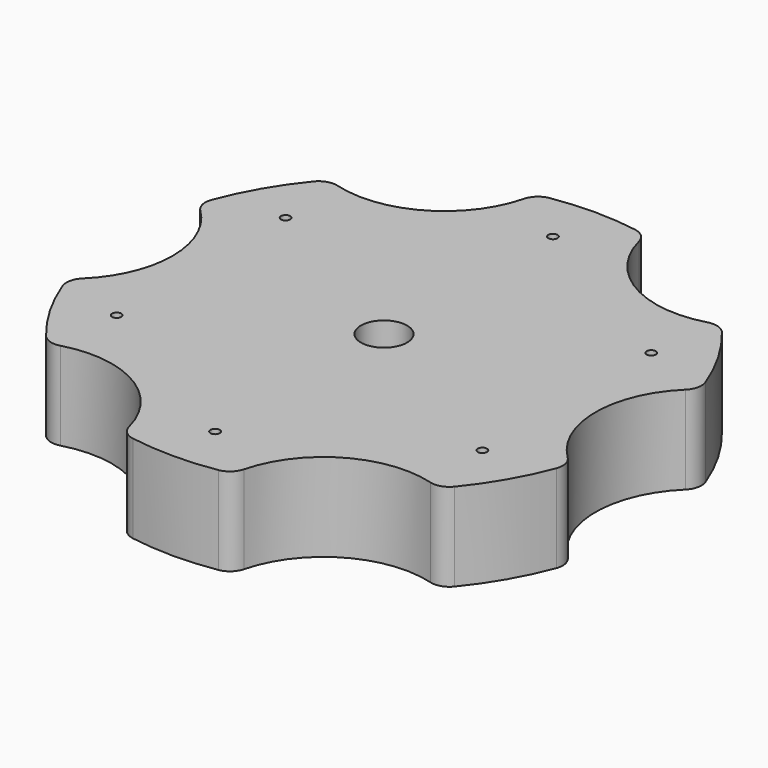
from build123d import *

# Parameters (mm, degrees)
F0_R     = 28.575
F0_R_2   = 2.5
F1_DEPTH = 9.525
F3_DEPTH = 25.4
F4_R     = 0.5
F5_DEPTH = 25.4
F6_R     = 2


with BuildPart() as f1:
    # F0 (on Top) → F1 (new body)
    with BuildSketch(Plane.XY):
        Circle(F0_R)
        Circle(F0_R_2, mode=Mode.SUBTRACT)
    extrude(amount=F1_DEPTH)

    # F2 (on Top) → F3 (cut)
    with BuildSketch(Plane.XY):
        with BuildLine():
            ThreePointArc((6.6033751745, -33.3637991738), (17.0054966041, -29.4543841262), (25.592210064, -22.4005902387))
            ThreePointArc((25.592210064, -22.4005902387), (11.4492466041, -19.8306768266), (6.6033751745, -33.3637991738))
        make_face()
        with BuildLine():
            ThreePointArc((-25.592210064, -22.4005902387), (-17.0054966041, -29.4543841262), (-6.6033751745, -33.3637991738))
            ThreePointArc((-6.6033751745, -33.3637991738), (-6.0720335059, -31.4411002438), (-5.8929966041, -29.4543841262))
            ThreePointArc((-5.8929966041, -29.4543841262), (-13.259311683, -18.9923692731), (-25.592210064, -22.4005902387))
        make_face()
        with BuildLine():
            ThreePointArc((-22.8984932081, 0), (-25.5356944726, 7.187278177), (-32.1955852385, 10.9632089351))
            ThreePointArc((-32.1955852385, 10.9632089351), (-34.0109932081, 0), (-32.1955852385, -10.9632089351))
            ThreePointArc((-32.1955852385, -10.9632089351), (-25.5356944726, -7.187278177), (-22.8984932081, 0))
        make_face()
        with BuildLine():
            ThreePointArc((-5.8929966041, 29.4543841262), (-6.0720335059, 31.4411002438), (-6.6033751745, 33.3637991738))
            ThreePointArc((-6.6033751745, 33.3637991738), (-17.0054966041, 29.4543841262), (-25.592210064, 22.4005902387))
            ThreePointArc((-25.592210064, 22.4005902387), (-13.259311683, 18.9923692731), (-5.8929966041, 29.4543841262))
        make_face()
        with BuildLine():
            ThreePointArc((6.6033751745, 33.3637991738), (11.4492466041, 19.8306768266), (25.592210064, 22.4005902387))
            ThreePointArc((25.592210064, 22.4005902387), (17.0054966041, 29.4543841262), (6.6033751745, 33.3637991738))
        make_face()
        with BuildLine():
            ThreePointArc((32.1955852385, -10.9632089351), (33.5540719577, -5.55625), (34.0109932081, 0))
            ThreePointArc((34.0109932081, 0), (33.5540719577, 5.55625), (32.1955852385, 10.9632089351))
            ThreePointArc((32.1955852385, 10.9632089351), (22.8984932081, 0), (32.1955852385, -10.9632089351))
        make_face()
    extrude(amount=F3_DEPTH, mode=Mode.SUBTRACT)

    # F4 (on Top) → F5 (cut)
    with BuildSketch(Plane.XY):
        with Locations((0, 22.86)):
            Circle(F4_R)
        with Locations((-19.7973407305, 11.43)):
            Circle(F4_R)
        with Locations((-19.7973407305, -11.43)):
            Circle(F4_R)
        with Locations((0, -22.86)):
            Circle(F4_R)
        with Locations((19.7973407305, -11.43)):
            Circle(F4_R)
        with Locations((19.7973407305, 11.43)):
            Circle(F4_R)
    extrude(amount=F5_DEPTH, mode=Mode.SUBTRACT)

    # F6
    f6_edges = [f1.edges().sort_by_distance(p)[0] for p in [
        (-21.197157, 19.162755, 4.7625),
        (-5.996854, 27.938654, 4.7625),
        (21.197157, 19.162755, 4.7625),
        (5.996854, 27.938654, 4.7625),
        (-27.194011, -8.775899, 4.7625),
        (-27.194011, 8.775899, 4.7625),
        (-5.996854, -27.938654, 4.7625),
        (-21.197157, -19.162755, 4.7625),
        (21.197157, -19.162755, 4.7625),
        (5.996854, -27.938654, 4.7625),
        (27.194011, 8.775899, 4.7625),
        (27.194011, -8.775899, 4.7625),
    ]]
    fillet(f6_edges, radius=F6_R)


solid = f1.part
